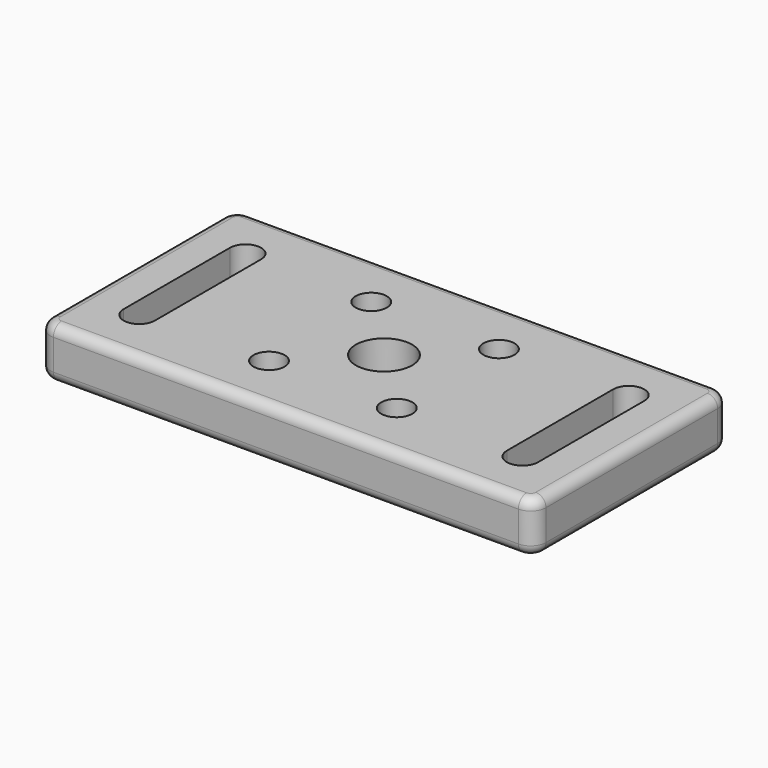
from build123d import *

# Parameters (mm, degrees)
PAD_DEPTH        = 10
SKETCH001_R      = 3.05
POCKET_DEPTH     = 10.001
FILLET_R         = 2
FILLET001_R      = 2
HOLE_D           = 6.6
HOLE_DEPTH       = 25
HOLE_CBORE_D     = 11
HOLE_CBORE_DEPTH = 6.4


with BuildPart() as part:
    # Sketch → Pad (new body)
    with BuildSketch(Plane.XY):
        with BuildLine():
            Line((-45.5, 24), (45.5, 24))
            ThreePointArc((48.5, 21), (47.62132, 23.12132), (45.5, 24))
            Line((48.5, 21), (48.5, -21))
            ThreePointArc((45.5, -24), (47.62132, -23.12132), (48.5, -21))
            Line((45.5, -24), (-45.5, -24))
            ThreePointArc((-48.5, -21), (-47.62132, -23.12132), (-45.5, -24))
            Line((-48.5, -21), (-48.5, 21))
            ThreePointArc((-45.5, 24), (-47.62132, 23.12132), (-48.5, 21))
        make_face()
        with BuildLine():
            ThreePointArc((40.55, 13), (37.5, 16.05), (34.45, 13))
            Line((34.45, 13), (34.45, -13))
            ThreePointArc((34.45, -13), (37.5, -16.05), (40.55, -13))
            Line((40.55, -13), (40.55, 13))
        make_face(mode=Mode.SUBTRACT)
        with BuildLine():
            ThreePointArc((-34.45, 13), (-37.5, 16.05), (-40.55, 13))
            Line((-40.55, 13), (-40.55, -13))
            ThreePointArc((-40.55, -13), (-37.5, -16.05), (-34.45, -13))
            Line((-34.45, -13), (-34.45, 13))
        make_face(mode=Mode.SUBTRACT)
    extrude(amount=PAD_DEPTH)

    # Sketch001 (on Face18 of Pad) → Pocket (cut, through all)
    with BuildSketch(Plane.XY.offset(10)):
        with Locations((-12.5, 12.5)):
            Circle(SKETCH001_R)
        with Locations((12.5, 12.5)):
            Circle(SKETCH001_R)
        with Locations((-12.5, -12.5)):
            Circle(SKETCH001_R)
        with Locations((12.5, -12.5)):
            Circle(SKETCH001_R)
    extrude(amount=-POCKET_DEPTH, mode=Mode.SUBTRACT)

    # Fillet
    fillet_edges = [part.edges().sort_by_distance(p)[0] for p in [
        (0, -24, 10),
    ]]
    fillet(fillet_edges, radius=FILLET_R)

    # Fillet001
    fillet001_edges = [part.edges().sort_by_distance(p)[0] for p in [
        (0, -24, 0),
    ]]
    fillet(fillet001_edges, radius=FILLET001_R)

    # Hole
    with Locations(Plane.XY.offset(10)):
        with Locations((0, 0)):
            CounterBoreHole(HOLE_D / 2, HOLE_CBORE_D / 2, HOLE_CBORE_DEPTH, depth=HOLE_DEPTH)


solid = part.part
